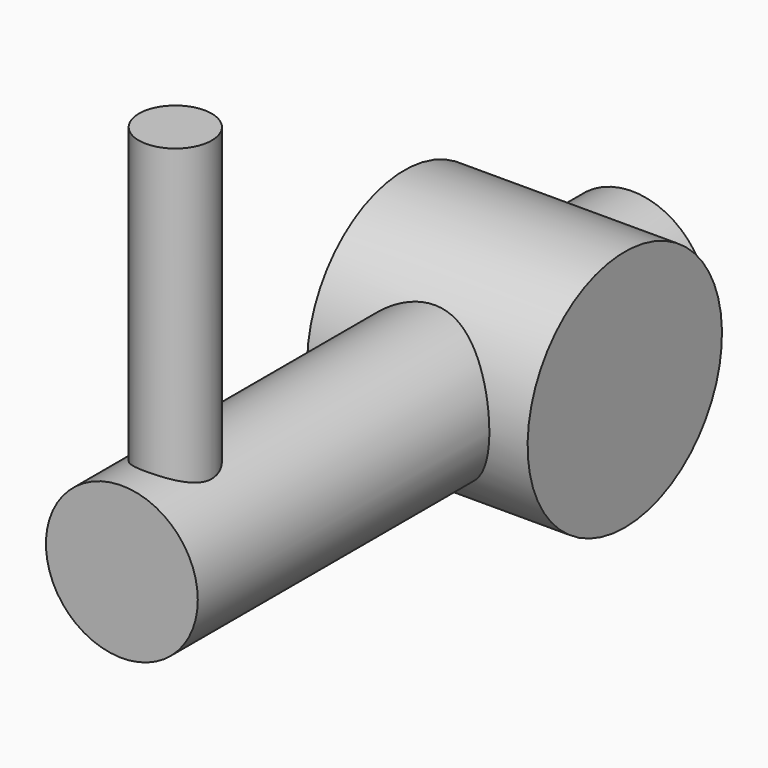
from build123d import *

# Parameters (mm, degrees)
CYLINDER006_R     = 2.5
CYLINDER006_DEPTH = 21
CYLINDER005_R     = 1.2
CYLINDER005_DEPTH = 12
CYLINDER004_R     = 4
CYLINDER004_DEPTH = 7.26


with BuildPart() as cylinder006:
    # Cylinder006 → Cylinder006 (new body)
    with BuildSketch(Plane(origin=(3.5, 5, 0), x_dir=(1, 0, 0), z_dir=(0, -1, 0))):
        Circle(CYLINDER006_R)
    extrude(amount=CYLINDER006_DEPTH)


with BuildPart() as cylinder005:
    # Cylinder005 → Cylinder005 (new body)
    with BuildSketch(Plane(origin=(3.5, -13.8, 0), x_dir=(1, 0, 0), z_dir=(0, 0, 1))):
        Circle(CYLINDER005_R)
    extrude(amount=CYLINDER005_DEPTH)


with BuildPart() as valve001:
    # Cylinder004 → Cylinder004 (new body)
    with BuildSketch(Plane(origin=(0, 0, 0), x_dir=(0, 0, -1), z_dir=(1, 0, 0))):
        Circle(CYLINDER004_R)
    extrude(amount=CYLINDER004_DEPTH)

    # Fusion001: union Cylinder006, Cylinder005
    add(cylinder006.part)
    add(cylinder005.part)


with BuildPart() as valve001_1:
    # Fusion001 placement: moved
    add(valve001.part.moved(Location((10, 0, 31.28))))


solid = valve001_1.part
